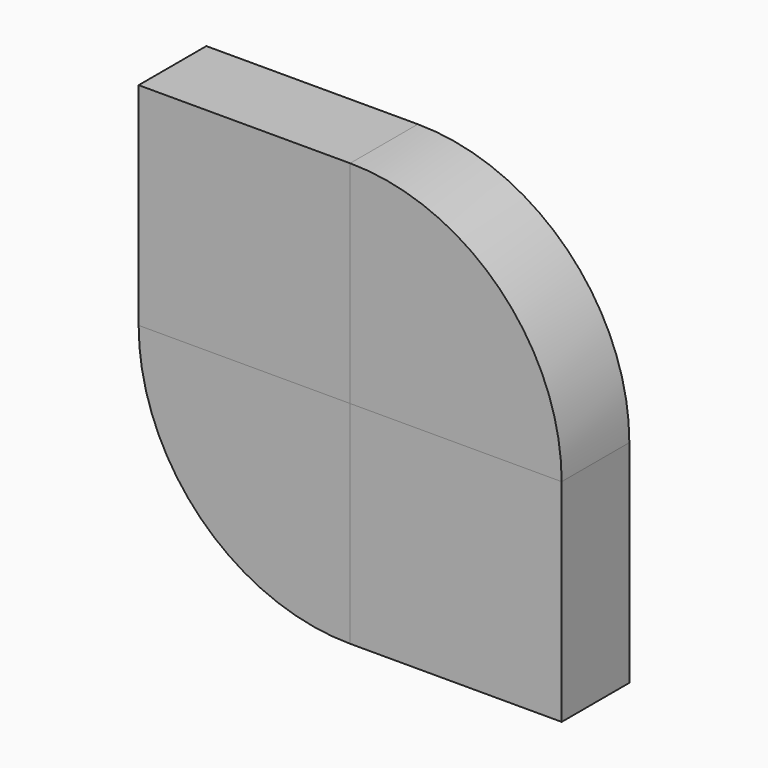
from build123d import *

# Parameters (mm, degrees)
F1_DEPTH = 25.4
F2_DEPTH = 25.4


with BuildPart() as f1:
    # F0 (on Front) → F1 (new body)
    with BuildSketch(Plane.XZ):
        with BuildLine():
            ThreePointArc((-63.5, 0), (-44.901281, -44.901281), (0, -63.5))
            Line((0, -63.5), (0, 0))
            Line((0, 0), (-63.5, 0))
        make_face()
        with BuildLine():
            Line((0, 0), (63.5, 0))
            ThreePointArc((63.5, 0), (44.901281, 44.901281), (0, 63.5))
            Line((0, 63.5), (0, 0))
        make_face()
    extrude(amount=F1_DEPTH)


with BuildPart() as f2:
    # F0 (on Front) → F2 (new body)
    with BuildSketch(Plane.XZ):
        with BuildLine():
            ThreePointArc((-63.5, 0), (-44.901281, 44.901281), (0, 63.5))
            Line((0, 63.5), (-63.5, 63.5))
            Line((-63.5, 63.5), (-63.5, 0))
        make_face()
        with BuildLine():
            Line((-63.5, 0), (0, 63.5))
            ThreePointArc((0, 63.5), (-44.901281, 44.901281), (-63.5, 0))
        make_face()
        Polygon((0, 0), (0, 63.5), (-63.5, 0), align=None)
        with BuildLine():
            ThreePointArc((0, -63.5), (44.901281, -44.901281), (63.5, 0))
            Line((63.5, 0), (0, -63.5))
        make_face()
        Polygon((0, -63.5), (63.5, 0), (0, 0), align=None)
        with BuildLine():
            Line((63.5, -63.5), (63.5, 0))
            ThreePointArc((63.5, 0), (44.901281, -44.901281), (0, -63.5))
            Line((0, -63.5), (63.5, -63.5))
        make_face()
    extrude(amount=F2_DEPTH)


solid = Compound([f1.part, f2.part])
